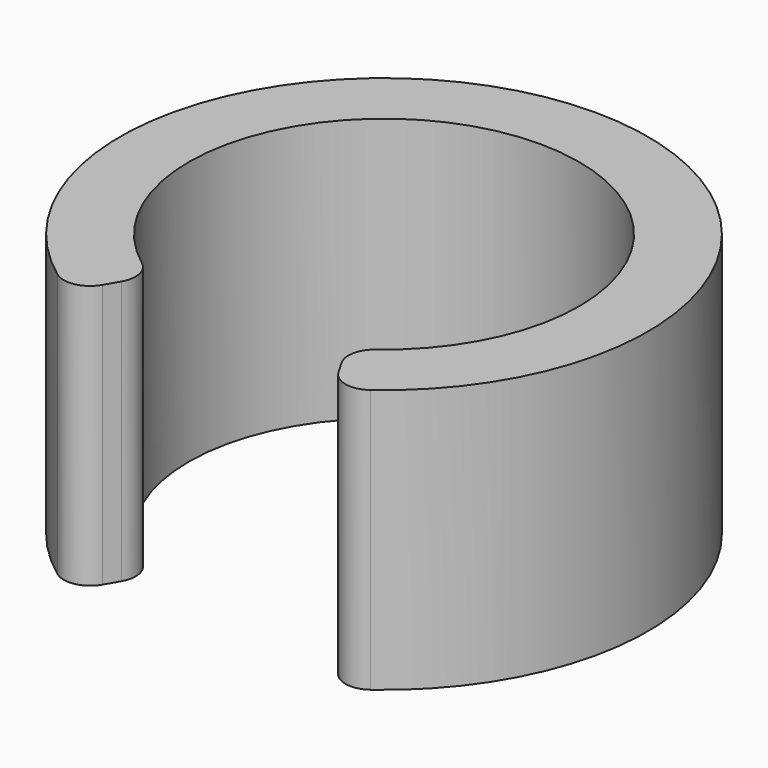
from build123d import *

# Parameters (mm, degrees)
F1_DEPTH = 25.4


with BuildPart() as f1:
    # F0 (on Top) → F1 (new body)
    with BuildSketch(Plane.XY):
        with BuildLine():
            ThreePointArc((-11.269001, -15.043245), (0, 18.796), (11.269001, -15.043245))
            ThreePointArc((11.269001, -15.043245), (10.303553, -16.566185), (10.592135, -18.346116))
            Line((10.592135, -18.346116), (11.359225, -19.674755))
            ThreePointArc((11.359225, -19.674755), (13.039062, -20.890985), (15.065478, -20.449728))
            ThreePointArc((15.065478, -20.449728), (0, 25.4), (-15.065478, -20.449728))
            ThreePointArc((-15.065478, -20.449728), (-13.039062, -20.890985), (-11.359225, -19.674755))
            Line((-11.359225, -19.674755), (-10.592135, -18.346116))
            ThreePointArc((-10.592135, -18.346116), (-10.303553, -16.566185), (-11.269001, -15.043245))
        make_face()
    extrude(amount=F1_DEPTH)


solid = f1.part
